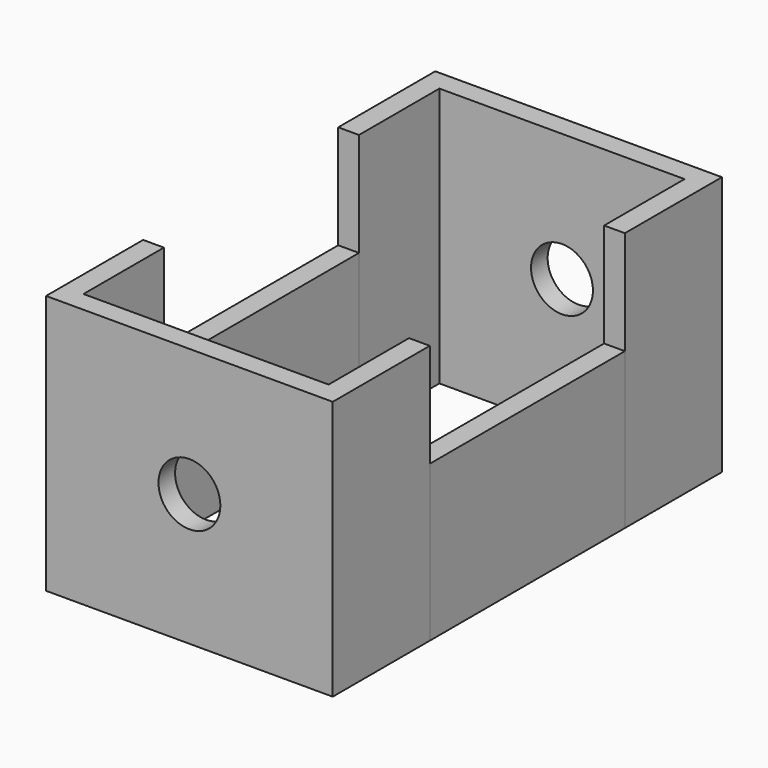
from build123d import *

# Parameters (mm, degrees)
F1_DEPTH = 63.5
F0_W     = 5.08
F0_H     = 59.645742
F2_DEPTH = 38.1
F3_R     = 7.570452
F4_DEPTH = 124.206


with BuildPart() as f1:
    # F0 (on Top) → F1 (new body)
    with BuildSketch(Plane.XY):
        Polygon((29.976288, 29.822871), (35.056288, 29.822871), (35.056288, 59.494689), (-35.056288, 59.494689), (-35.056288, 29.822871), (-29.976288, 29.822871), (-29.976288, 54.414689), (29.976288, 54.414689), align=None)
        Polygon((-35.056288, -59.494689), (35.056288, -59.494689), (35.056288, -29.822871), (29.976288, -29.822871), (29.976288, -54.414689), (-29.976288, -54.414689), (-29.976288, -29.822871), (-35.056288, -29.822871), align=None)
    extrude(amount=F1_DEPTH)

    # F3 (on face) → F4 (cut)
    with BuildSketch(Plane.XZ.offset(59.494689)):
        with Locations((0, 32.214299)):
            Circle(F3_R)
    extrude(amount=-F4_DEPTH, mode=Mode.SUBTRACT)


with BuildPart() as f2:
    # F0 (on Top) → F2 (new body)
    with BuildSketch(Plane.XY):
        with Locations((-32.516288, 0)):
            Rectangle(F0_W, F0_H)
        with Locations((32.516288, 0)):
            Rectangle(F0_W, F0_H)
    extrude(amount=F2_DEPTH)


solid = Compound([f1.part, f2.part])
